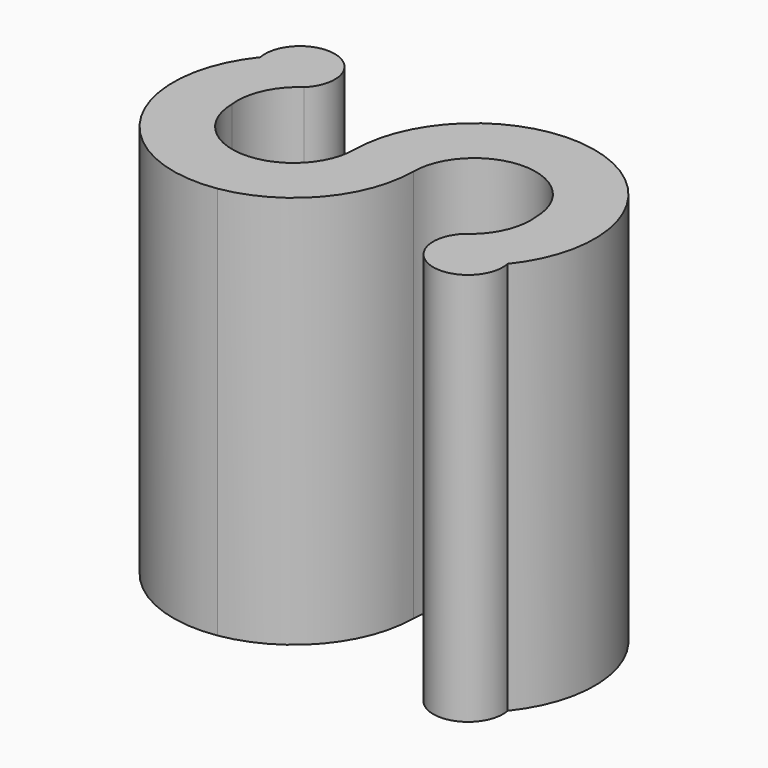
from build123d import *

# Parameters (mm, degrees)
F1_DEPTH = 10


with BuildPart() as f1:
    # F0 (on Top) → F1 (new body)
    with BuildSketch(Plane.XY):
        with BuildLine():
            ThreePointArc((-38.901878, 16.278005), (-37.061914, 17.308061), (-36.325796, 19.284071))
            Line((-36.325796, 19.284071), (-37.825796, 19.284071))
            ThreePointArc((-37.825796, 19.284071), (-39.384453, 17.739665), (-40.943111, 19.284071))
            ThreePointArc((-40.943111, 19.284071), (-40.818937, 20.109457), (-40.286706, 20.752427))
            ThreePointArc((-40.286706, 20.752427), (-40.632409, 22.235194), (-41.765545, 21.218282))
            ThreePointArc((-41.765545, 21.218282), (-42.03071, 17.764466), (-38.901878, 16.278005))
        make_face()
        with BuildLine():
            ThreePointArc((-36.325796, 19.284071), (-34.767138, 20.828477), (-33.208481, 19.284071))
            ThreePointArc((-33.208481, 19.284071), (-33.332654, 18.458685), (-33.864885, 17.815715))
            ThreePointArc((-33.864885, 17.815715), (-33.519182, 16.332948), (-32.386046, 17.34986))
            ThreePointArc((-32.386046, 17.34986), (-32.120882, 20.803676), (-35.249713, 22.290136))
            ThreePointArc((-35.249713, 22.290136), (-37.089678, 21.26008), (-37.825796, 19.284071))
            Line((-37.825796, 19.284071), (-36.325796, 19.284071))
        make_face()
    extrude(amount=F1_DEPTH)


solid = f1.part
